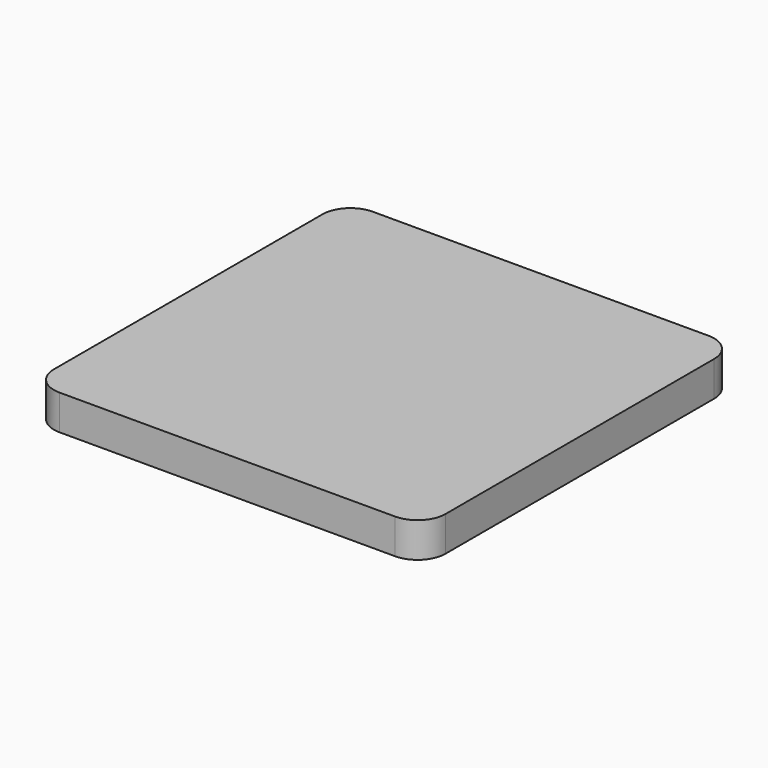
from build123d import *

# Parameters (mm, degrees)
F0_W     = 140
F0_H     = 140
F0_W_2   = 40
F0_H_2   = 130
F1_DEPTH = 12.5
F2_R     = 10


with BuildPart() as f1:
    # F0 (on Top) → F1 (new body)
    with BuildSketch(Plane.XY):
        Rectangle(F0_W, F0_H)
        Rectangle(F0_W_2, F0_H_2, mode=Mode.SUBTRACT)
        Rectangle(F0_W_2, F0_H_2)
    extrude(amount=F1_DEPTH)

    # F2
    f2_edges = [f1.edges().sort_by_distance(p)[0] for p in [
        (70, -70, 6.25),
        (70, 70, 6.25),
        (-70, 70, 6.25),
        (-70, -70, 6.25),
    ]]
    fillet(f2_edges, radius=F2_R)


solid = f1.part
